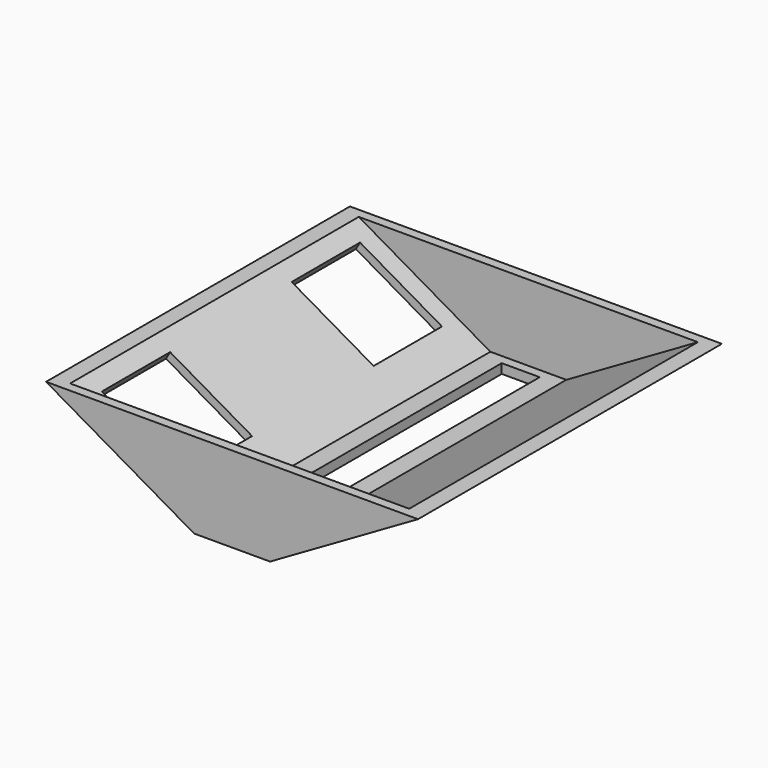
from build123d import *

# Parameters (mm, degrees)
F0_W          = 25.4
F0_H          = 127
F0_W_2        = 12.7
F0_H_2        = 114.3
F1_DEPTH      = 3.175
F3_DEPTH      = 63.5
F3_DEPTH_BACK = 63.5
F7_DEPTH      = 3.175
F9_DEPTH      = 3.175
F10_W         = 31.6360226281
F10_H         = 28.575
F11_DEPTH     = 62.1943518263


with BuildPart() as f1:
    # F0 (on Top) → F1 (new body)
    with BuildSketch(Plane.XY):
        Rectangle(F0_W, F0_H)
        Rectangle(F0_W_2, F0_H_2, mode=Mode.SUBTRACT)
    extrude(amount=F1_DEPTH)

    # F2 (on Front) → F3 (join, two sides)
    with BuildSketch(Plane.XZ) as f3_sk:
        Polygon((56.6940905122, 28.575), (12.7, 3.175), (18.199261314, 3.175), (62.1933518263, 28.575), align=None)
        Polygon((18.199261314, 3.175), (12.7, 3.175), (12.7, 0), align=None)
        Polygon((-12.7, 3.175), (-56.6940905122, 28.575), (-62.1933518263, 28.575), (-12.7, 0), align=None)
    extrude(amount=F3_DEPTH)
    extrude(f3_sk.sketch, amount=-F3_DEPTH_BACK)

    # F6 (on offset) → F7 (join)
    with BuildSketch(Plane.XZ.offset(63.5)):
        Polygon((62.1933518263, 28.575), (-62.1933518263, 28.575), (-12.7, 0), (12.7, 0), align=None)
    extrude(amount=-F7_DEPTH)

    # F8 (on offset) → F9 (join)
    with BuildSketch(Plane.XZ.offset(-63.5)):
        Polygon((62.1933518263, 28.575), (-62.1933518263, 28.575), (-12.7, 0), (12.7, 0), align=None)
    extrude(amount=F9_DEPTH)

    # F10 (on face) → F11 (cut, through all)
    with BuildSketch(Plane(origin=(-3.175, 0, -5.499261314), x_dir=(0.8660254038, 0, -0.5), z_dir=(-0.5, 0, -0.8660254038))):
        with Locations((-41.218011314, 39.6875)):
            Rectangle(F10_W, F10_H)
        with Locations((-41.218011314, -39.6875)):
            Rectangle(F10_W, F10_H)
    extrude(amount=-F11_DEPTH, mode=Mode.SUBTRACT)


solid = f1.part
